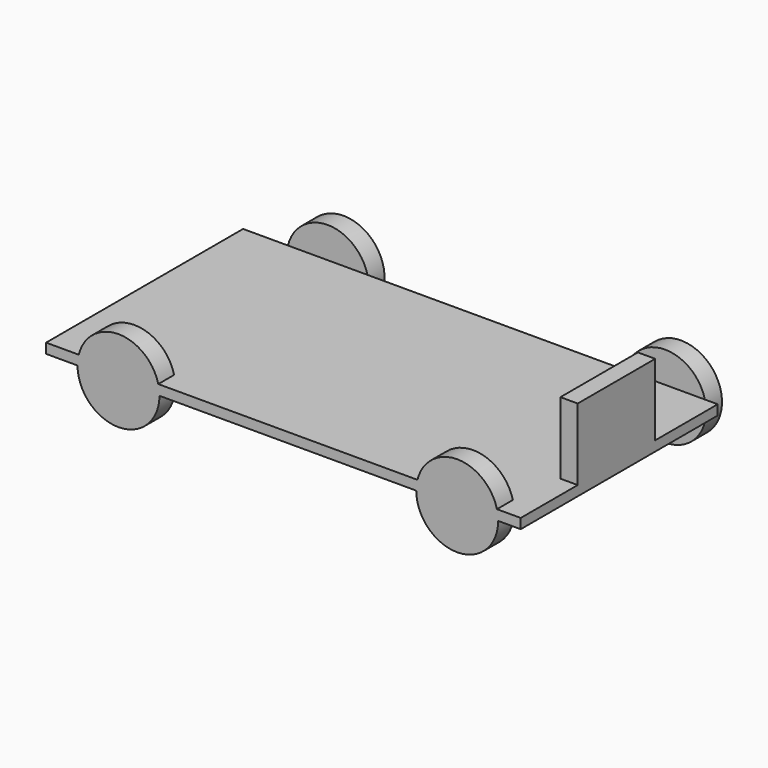
from build123d import *

# Parameters (mm, degrees)
F0_W     = 121.512517333
F0_H     = 63.0381852388
F1_DEPTH = 2.54
F3_R     = 10.4902
F2_R     = 10.4902
F2_R_2   = 10.4891359602
F4_DEPTH = 5.08
F5_W     = 24.793356657
F5_H     = 18.3770691669
F6_DEPTH = 4.4237


with BuildPart() as f1:
    # F0 (on Top) → F1 (new body)
    with BuildSketch(Plane.XY):
        Rectangle(F0_W, F0_H)
    extrude(amount=F1_DEPTH)

    # F3 (on face) + F2 (on face) → F4 (join)
    with BuildSketch(Plane(origin=(0, 31.5190926194, 0), x_dir=(-1, 0, 0), z_dir=(0, 1, 0))):
        with Locations((-47.3014861345, 0)):
            Circle(F3_R)
        with Locations((39.0958227217, 0)):
            Circle(F3_R)
    with BuildSketch(Plane.XZ.offset(31.5190926194)):
        with Locations((-42.2156155109, 0)):
            Circle(F2_R)
        with Locations((44.4975420833, 0)):
            Circle(F2_R_2)
    extrude(amount=F4_DEPTH, dir=(0, 1, 0))

    # F5 (on face) → F6 (join)
    with BuildSketch(Plane.YZ.offset(60.7562586665)):
        with Locations((-0.8818171918, 11.7285345834)):
            Rectangle(F5_W, F5_H)
    extrude(amount=-F6_DEPTH)


solid = f1.part
